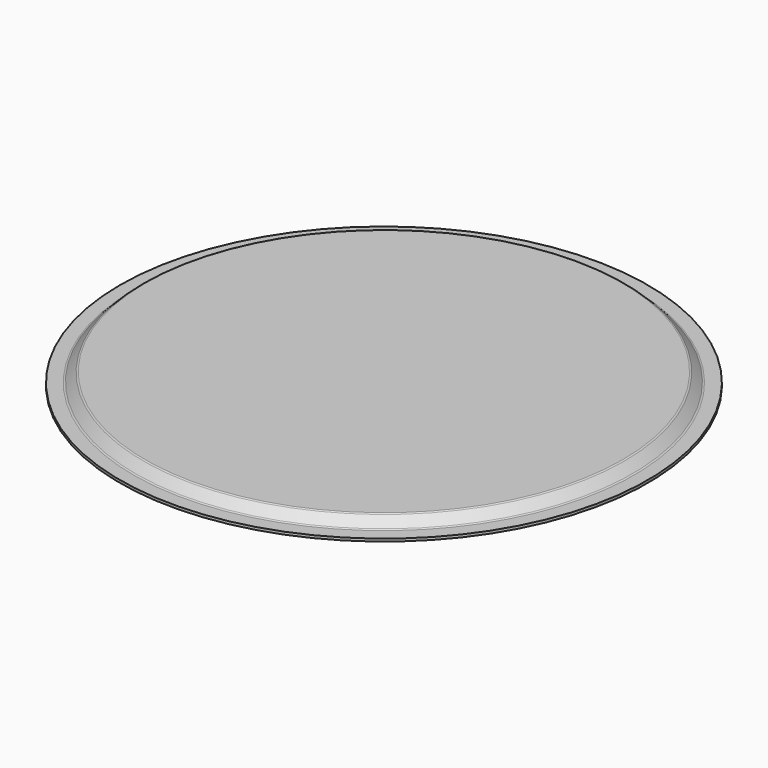
from build123d import *


with BuildPart() as f1:
    # F0 (on Front) → F1 (revolve)
    with BuildSketch(Plane.XZ):
        with BuildLine():
            Line((0, -3.429), (0, 0))
            Line((0, 0), (-312.755872, 0))
            ThreePointArc((-312.755872, 0), (-313.970892, -0.241682), (-315.000936, -0.929936))
            Line((-315.000936, -0.929936), (-325.841064, -11.770064))
            ThreePointArc((-325.841064, -11.770064), (-326.871108, -12.458318), (-328.086128, -12.7))
            Line((-328.086128, -12.7), (-345.821, -12.7))
            Line((-345.821, -12.7), (-345.821, -16.129))
            Line((-345.821, -16.129), (-328.086128, -16.129))
            ThreePointArc((-328.086128, -16.129), (-325.558887, -15.6263), (-323.416395, -14.194733))
            Line((-323.416395, -14.194733), (-312.650662, -3.429))
            Line((-312.650662, -3.429), (0, -3.429))
        make_face()
    revolve(axis=Axis((0, 0, -1.7145), (0, 0, -1)))


solid = f1.part
